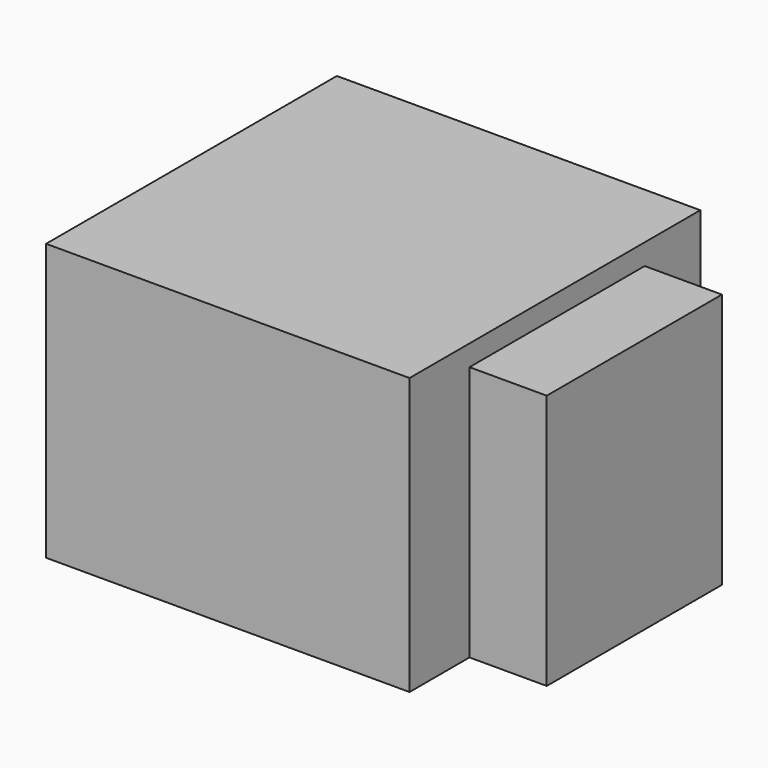
from build123d import *

# Parameters (mm, degrees)
F0_W     = 16
F0_H     = 16
F1_DEPTH = 12.17
F2_W     = 9.64
F2_H     = 11.25
F3_DEPTH = 3.4


with BuildPart() as f1:
    # F0 (on Top) → F1 (new body)
    with BuildSketch(Plane.XY):
        Rectangle(F0_W, F0_H)
    extrude(amount=F1_DEPTH)

    # F2 (on face) → F3 (join)
    with BuildSketch(Plane.YZ.offset(8)):
        with Locations((0.12, 5.625)):
            Rectangle(F2_W, F2_H)
    extrude(amount=F3_DEPTH)


solid = f1.part
